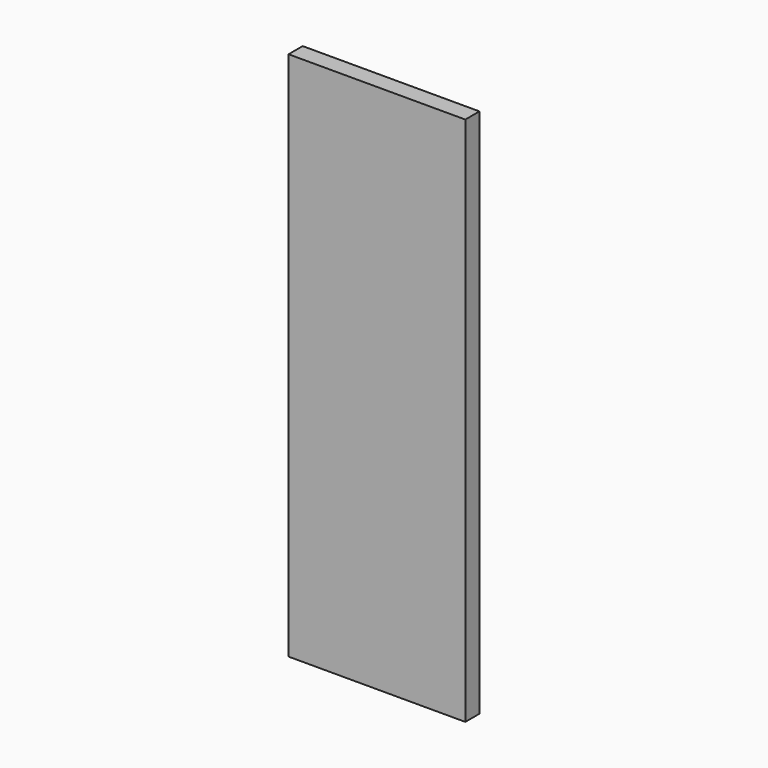
from build123d import *

# Parameters (mm, degrees)
SKETCH_W  = 1000
SKETCH_H  = 100
PAD_DEPTH = 3000


with BuildPart() as body:
    # Sketch → Pad (new body)
    with BuildSketch(Plane.XY):
        Rectangle(SKETCH_W, SKETCH_H)
    extrude(amount=PAD_DEPTH)


with BuildPart() as wall1000_clone:
    # Clone base: copy of Body
    add(body.part)


solid = Compound([body.part, wall1000_clone.part])
